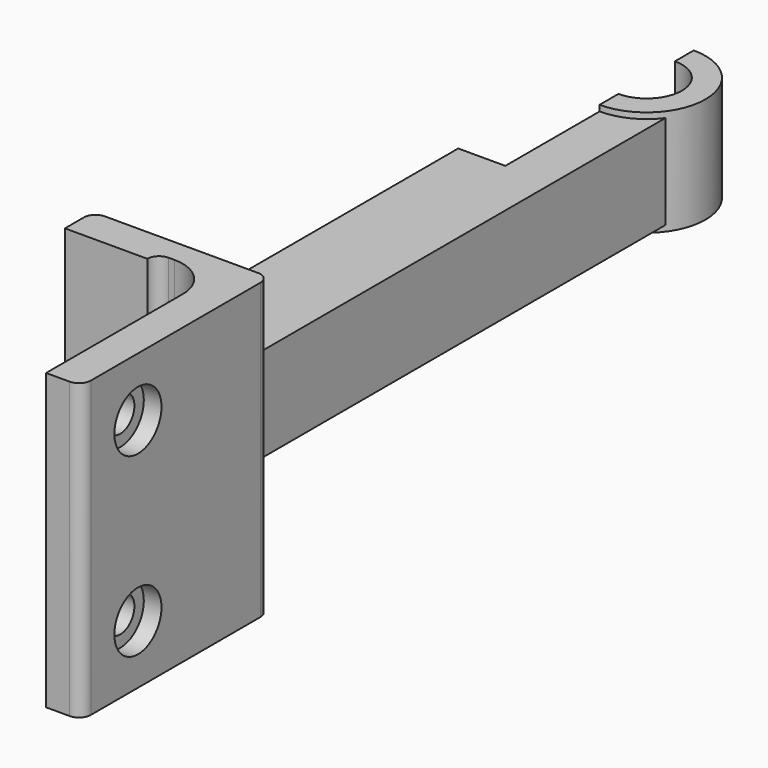
from build123d import *

# Parameters (mm, degrees)
F1_DEPTH       = 12.5
F3_D           = 3
F3_CBORE_D     = 5
F3_CBORE_DEPTH = 1.5
F4_DEPTH       = 4
F5_DEPTH       = 4.5
F7_W           = 52.7206266809
F7_H           = 3
F8_DEPTH       = 2
F10_DEPTH      = 2
F12_D          = 1
F12_DEPTH      = 3.5
F12_TIP        = 0.3004303095


with BuildPart() as f1:
    # F0 (on Top) → F1 (new body, symmetric)
    with BuildSketch(Plane.XY):
        with BuildLine():
            Line((-6.5277831331, -11.7825440413), (-8.5277831331, -11.7825440413))
            ThreePointArc((-8.5277831331, -11.7825440413), (-9.2348899143, -12.0754372601), (-9.5277831331, -12.7825440413))
            Line((-9.5277831331, -12.7825440413), (-9.5277831331, -14.7825440413))
            Line((-9.5277831331, -14.7825440413), (-2.5277831331, -14.7825440413))
            ThreePointArc((-2.5277831331, -14.7825440413), (-2.2348899143, -14.0754372601), (-1.5277831331, -13.7825440413))
            Line((-1.5277831331, -13.7825440413), (-1.0277831331, -13.7825440413))
            ThreePointArc((-1.0277831331, -13.7825440413), (1.4470906011, -14.8076703072), (2.4722168669, -17.2825440413))
            Line((2.4722168669, -17.2825440413), (2.4722168669, -31.7825440413))
            Line((2.4722168669, -31.7825440413), (4.4722168669, -31.7825440413))
            ThreePointArc((4.4722168669, -31.7825440413), (5.1793236481, -31.4896508225), (5.4722168669, -30.7825440413))
            Line((5.4722168669, -30.7825440413), (5.4722168669, -12.7825440413))
            ThreePointArc((5.4722168669, -12.7825440413), (5.1793236481, -12.0754372601), (4.4722168669, -11.7825440413))
            Line((4.4722168669, -11.7825440413), (1.472, -11.7825440413))
            Line((1.472, -11.7825440413), (-6.5277831331, -11.7825440413))
        make_face()
    extrude(amount=F1_DEPTH, both=True)

    # F3 (through all)
    with Locations(Plane.YZ.offset(5.4722168669)):
        with Locations((-25.7825440413, 7.5), (-25.7825440413, -7.5)):
            CounterBoreHole(F3_D / 2, F3_CBORE_D / 2, F3_CBORE_DEPTH)

    # F0 (on Top) → F4 (join, symmetric)
    with BuildSketch(Plane.XY):
        with BuildLine():
            Line((-6.528, -0.9138678433), (-8.5277831331, -11.7825440413))
            Line((-8.5277831331, -11.7825440413), (-6.5277831331, -11.7825440413))
            Line((-6.5277831331, -11.7825440413), (1.472, -11.7825440413))
            Line((1.472, -11.7825440413), (1.472, 35.2174559587))
            ThreePointArc((1.472, 35.2174559587), (-0.2919320225, 33.7453200037), (-2.528, 33.2174559587))
            Line((-2.528, 33.2174559587), (-2.528, 23.2174559587))
            Line((-2.528, 23.2174559587), (-6.528, 23.2174559587))
            Line((-6.528, 23.2174559587), (-6.528, -0.9138678433))
        make_face()
    extrude(amount=F4_DEPTH, both=True)

    # F0 (on Top) → F5 (join, symmetric)
    with BuildSketch(Plane.XY):
        with BuildLine():
            ThreePointArc((-2.528, 33.2174559587), (-0.2919320225, 33.7453200037), (1.472, 35.2174559587))
            ThreePointArc((1.472, 35.2174559587), (1.944135955, 40.4535239362), (-2.528, 43.2174559587))
            Line((-2.528, 43.2174559587), (-2.528, 41.2174559587))
            ThreePointArc((-2.528, 41.2174559587), (0.472, 38.2174559587), (-2.528, 35.2174559587))
            Line((-2.528, 35.2174559587), (-2.528, 33.2174559587))
        make_face()
    extrude(amount=F5_DEPTH, both=True)

    # F7 (on offset) → F8 (cut, symmetric)
    with BuildSketch(Plane.YZ.offset(-2.528)):
        with Locations((10.1688103074, 0)):
            Rectangle(F7_W, F7_H)
    extrude(amount=F8_DEPTH, both=True, mode=Mode.SUBTRACT)

    # F9 (on Top) → F10 (cut, symmetric)
    with BuildSketch(Plane.XY):
        Polygon((-1.2336979853, -0.9498164291), (-4.6429014765, -0.9498164291), (-7.5818696059, -16.5851321071), (-1.2336979853, -16.5851321071), align=None)
    extrude(amount=F10_DEPTH, both=True, mode=Mode.SUBTRACT)

    # F12
    with Locations(Plane(origin=(-2.528, 0, 0), x_dir=(0, -1, 0), z_dir=(-1, 0, 0))):
        with Locations((-28.2174559587, -2.5), (-28.2174559587, 2.5)):
            Hole(F12_D / 2, depth=F12_DEPTH)
            with Locations((0, 0, -(F12_DEPTH + F12_TIP / 2))):  # 118° drill point
                Cone(0, F12_D / 2, F12_TIP, mode=Mode.SUBTRACT)


solid = f1.part
